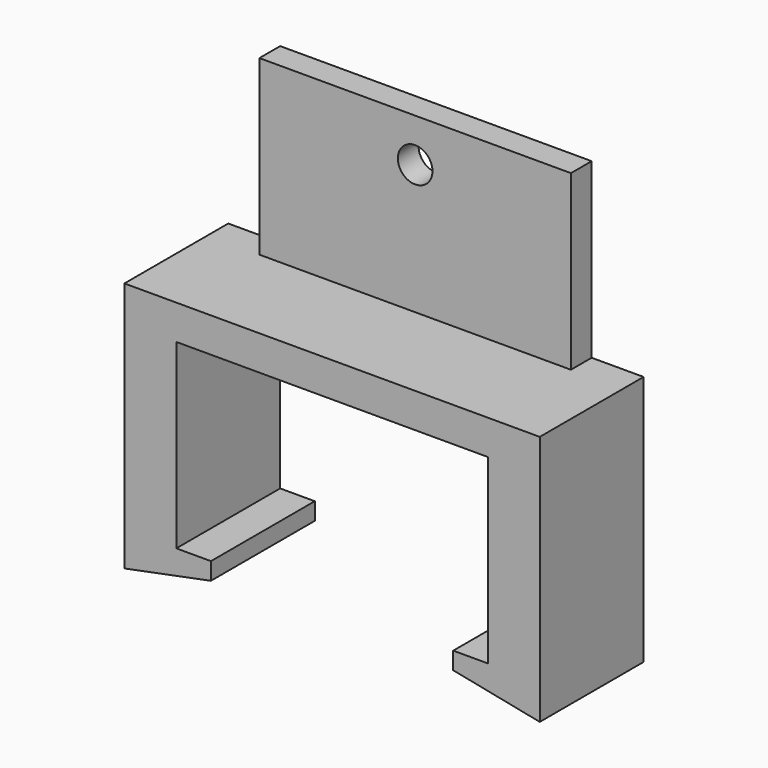
from build123d import *

# Parameters (mm, degrees)
F0_W     = 6
F0_H     = 15
F0_W_2   = 36
F1_DEPTH = 4
F2_DEPTH = 25
F4_DEPTH = 15
F5_W     = 36
F5_H     = 3
F6_DEPTH = 20
F7_R     = 2
F8_DEPTH = 3


with BuildPart() as f1:
    # F0 (on Top) → F1 (new body)
    with BuildSketch(Plane.XY):
        with Locations((-21, -7.5)):
            Rectangle(F0_W, F0_H)
        with Locations((0, -7.5)):
            Rectangle(F0_W_2, F0_H)
        with Locations((21, -7.5)):
            Rectangle(F0_W, F0_H)
    extrude(amount=-F1_DEPTH)

    # F0 (on Top) → F2 (join)
    with BuildSketch(Plane.XY):
        with Locations((-21, -7.5)):
            Rectangle(F0_W, F0_H)
        with Locations((21, -7.5)):
            Rectangle(F0_W, F0_H)
    extrude(amount=-F2_DEPTH)

    # F3 (on face) → F4 (join, through all)
    with BuildSketch(Plane.XZ.offset(15)):
        Polygon((24, -29), (24, -25), (18, -25), (14, -25), (14, -27), align=None)
        Polygon((-18, -25), (-24, -25), (-24, -29), (-14, -27), (-14, -25), align=None)
    extrude(amount=-F4_DEPTH)

    # F5 (on Top) → F6 (join)
    with BuildSketch(Plane.XY):
        with Locations((0, -1.5)):
            Rectangle(F5_W, F5_H)
    extrude(amount=F6_DEPTH)

    # F7 (on face) → F8 (cut, through all)
    with BuildSketch(Plane(origin=(0, 0, 0), x_dir=(-1, 0, 0), z_dir=(0, 1, 0))):
        with Locations((0, 15)):
            Circle(F7_R)
    extrude(amount=-F8_DEPTH, mode=Mode.SUBTRACT)


solid = f1.part
